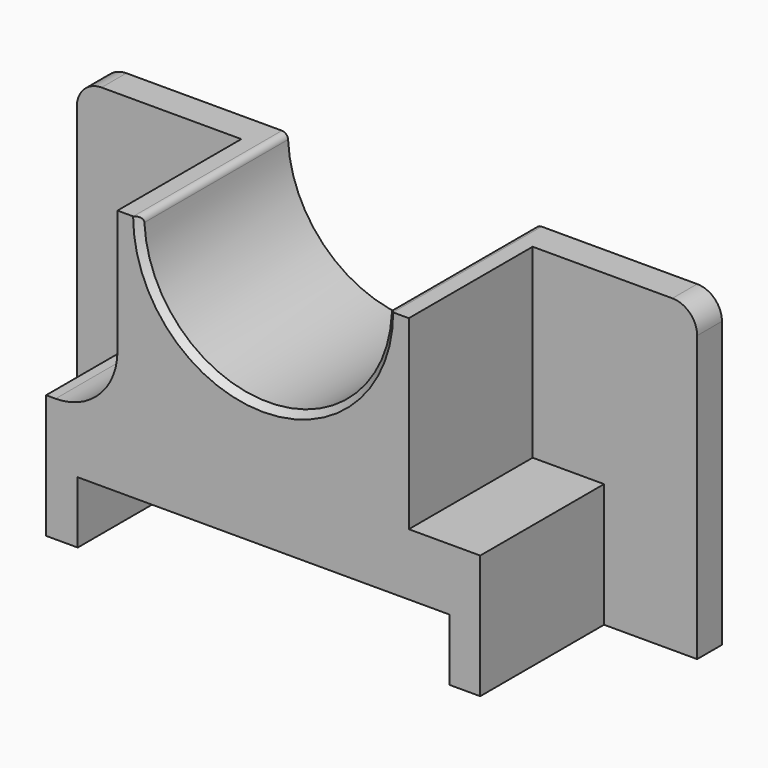
from build123d import *

# Parameters (mm, degrees)
F0_W     = 76.2
F0_H     = 12.7
F1_DEPTH = 6.35
F2_DEPTH = 38.1
F3_R     = 5.08
F4_SIZE  = 1.27
F5_R     = 1.27
F6_R     = 12.7


with BuildPart() as f1:
    # F0 (on Front) → F1 (new body)
    with BuildSketch(Plane.XZ):
        Polygon((-29.878691, -6.35), (-29.878691, 31.75), (-63.618055, 31.75), (-63.618055, -31.75), (-44.521958, -31.75), (-44.521958, -19.05), (-44.521958, -6.35), (-38.028042, -6.35), align=None)
        Polygon((63.618055, -31.75), (63.618055, 31.75), (29.878691, 31.75), (29.878691, -6.35), (38.171958, -6.35), (44.521958, -6.35), (44.521958, -19.05), (44.521958, -31.75), align=None)
        with BuildLine():
            Line((29.878691, -6.35), (29.878691, 31.75))
            Line((29.878691, 31.75), (25.4, 31.75))
            ThreePointArc((25.4, 31.75), (0, 6.35), (-25.4, 31.75))
            Line((-25.4, 31.75), (-29.878691, 31.75))
            Line((-29.878691, 31.75), (-29.878691, -6.35))
            Line((-29.878691, -6.35), (-38.028042, -6.35))
            Line((-38.028042, -6.35), (-44.521958, -6.35))
            Line((-44.521958, -6.35), (-44.521958, -19.05))
            Line((-44.521958, -19.05), (-44.521958, -31.75))
            Line((-44.521958, -31.75), (-38.028042, -31.75))
            Line((-38.028042, -31.75), (-38.028042, -19.05))
            Line((-38.028042, -19.05), (38.171958, -19.05))
            Line((38.171958, -19.05), (38.171958, -31.75))
            Line((38.171958, -31.75), (44.521958, -31.75))
            Line((44.521958, -31.75), (44.521958, -19.05))
            Line((44.521958, -19.05), (44.521958, -6.35))
            Line((44.521958, -6.35), (38.171958, -6.35))
            Line((38.171958, -6.35), (29.878691, -6.35))
        make_face()
        with Locations((0.071958, -25.4)):
            Rectangle(F0_W, F0_H)
    extrude(amount=F1_DEPTH)

    # F0 (on Front) → F2 (join)
    with BuildSketch(Plane.XZ):
        with BuildLine():
            Line((29.878691, -6.35), (29.878691, 31.75))
            Line((29.878691, 31.75), (25.4, 31.75))
            ThreePointArc((25.4, 31.75), (0, 6.35), (-25.4, 31.75))
            Line((-25.4, 31.75), (-29.878691, 31.75))
            Line((-29.878691, 31.75), (-29.878691, -6.35))
            Line((-29.878691, -6.35), (-38.028042, -6.35))
            Line((-38.028042, -6.35), (-44.521958, -6.35))
            Line((-44.521958, -6.35), (-44.521958, -19.05))
            Line((-44.521958, -19.05), (-44.521958, -31.75))
            Line((-44.521958, -31.75), (-38.028042, -31.75))
            Line((-38.028042, -31.75), (-38.028042, -19.05))
            Line((-38.028042, -19.05), (38.171958, -19.05))
            Line((38.171958, -19.05), (38.171958, -31.75))
            Line((38.171958, -31.75), (44.521958, -31.75))
            Line((44.521958, -31.75), (44.521958, -19.05))
            Line((44.521958, -19.05), (44.521958, -6.35))
            Line((44.521958, -6.35), (38.171958, -6.35))
            Line((38.171958, -6.35), (29.878691, -6.35))
        make_face()
    extrude(amount=F2_DEPTH)

    # F3
    f3_edges = [f1.edges().sort_by_distance(p)[0] for p in [
        (-63.618055, -3.175, 31.75),
        (63.618055, -3.175, 31.75),
    ]]
    fillet(f3_edges, radius=F3_R)

    # F4
    f4_edges = [f1.edges().sort_by_distance(p)[0] for p in [
        (0, -38.1, 6.35),
    ]]
    chamfer(f4_edges, length=F4_SIZE)

    # F5
    f5_edges = [f1.edges().sort_by_distance(p)[0] for p in [
        (25.4, -18.415, 31.75),
        (-25.4, -18.415, 31.75),
    ]]
    fillet(f5_edges, radius=F5_R)

    # F6
    f6_edges = [f1.edges().sort_by_distance(p)[0] for p in [
        (-29.878691, -22.225, -6.35),
    ]]
    fillet(f6_edges, radius=F6_R)


solid = f1.part
